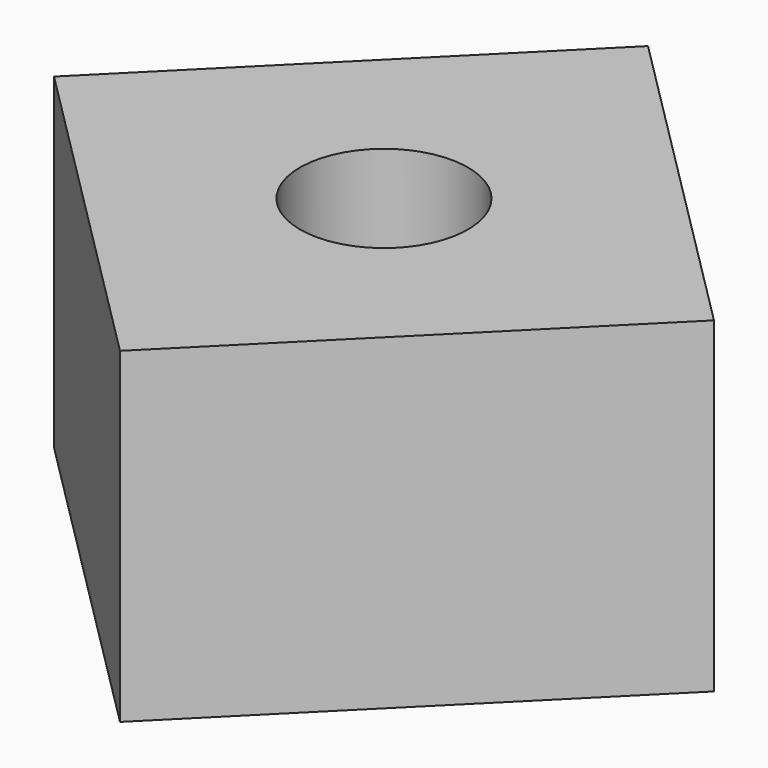
from build123d import *

# Parameters (mm, degrees)
CYLINDER012_R            = 0.9
CYLINDER012_DEPTH        = 3.5
BOX039_W                 = 5
BOX039_H                 = 5
BOX039_DEPTH             = 3.5
CLONE011_PLACEMENT_ANGLE = 45


with BuildPart() as anchorscrew:
    # Cylinder012 → Cylinder012 (new body)
    with BuildSketch(Plane(origin=(2.5, 2.5, 0), x_dir=(1, 0, 0), z_dir=(0, 0, 1))):
        Circle(CYLINDER012_R)
    extrude(amount=CYLINDER012_DEPTH)


with BuildPart() as anchor006:
    # Box039 → Box039 (new body)
    with BuildSketch(Plane.XY):
        with Locations((2.5, 2.5)):
            Rectangle(BOX039_W, BOX039_H)
    extrude(amount=BOX039_DEPTH)

    # Cut010: cut AnchorScrew
    add(anchorscrew.part, mode=Mode.SUBTRACT)


with BuildPart() as anchor006_1:
    # Clone011 placement: moved
    add(anchor006.part.moved(Location((98.326641456, 10.6550685808, 2))).rotate(Axis((98.326641456, 10.6550685808, 2), (0, 0, 1)), CLONE011_PLACEMENT_ANGLE))


with BuildPart() as part_mirroring010:
    # Part__Mirroring010: instance of Anchor006
    add(anchor006_1.part.mirror(Plane(origin=(0, 0, 5.5), x_dir=(0, 1, 0), z_dir=(0, 0, 1))))


solid = part_mirroring010.part
